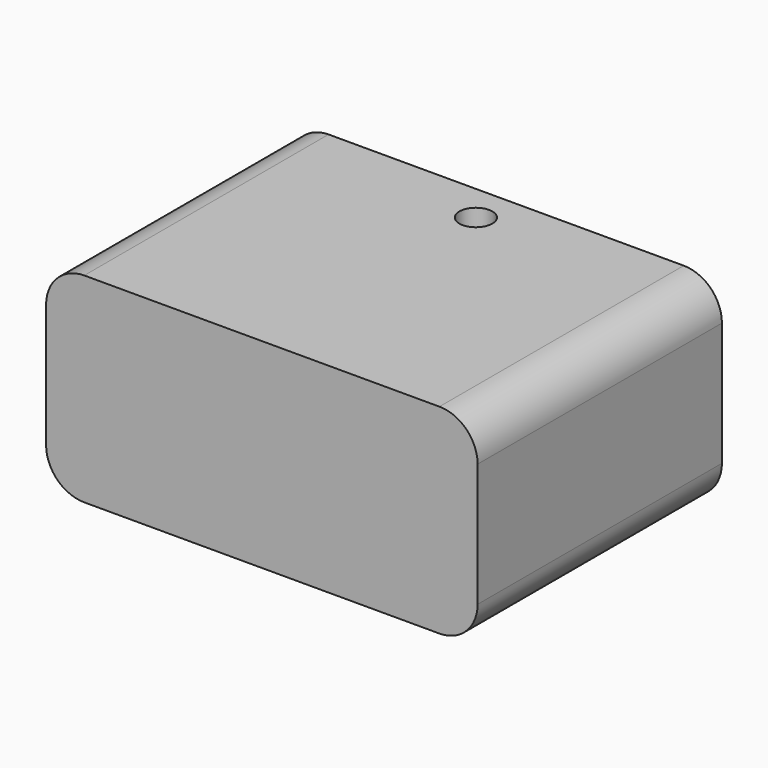
from build123d import *

# Parameters (mm, degrees)
F1_DEPTH = 50.8
F3_D     = 5.5


with BuildPart() as f1:
    # F0 (on Front) → F1 (new body)
    with BuildSketch(Plane.XZ):
        with BuildLine():
            ThreePointArc((0, 6.35), (1.8598719395, 1.8598719395), (6.35, 0))
            Line((6.35, 0), (65.4343323946, 0))
            ThreePointArc((65.4343323946, 0), (69.9244604551, 1.8598719395), (71.7843323946, 6.35))
            Line((71.7843323946, 6.35), (71.7843323946, 26.8787885249))
            ThreePointArc((71.7843323946, 26.8787885249), (69.9244604551, 31.3689165854), (65.4343323946, 33.2287885249))
            Line((65.4343323946, 33.2287885249), (6.35, 33.2287885249))
            ThreePointArc((6.35, 33.2287885249), (1.8598719395, 31.3689165854), (0, 26.8787885249))
            Line((0, 26.8787885249), (0, 6.35))
        make_face()
    extrude(amount=F1_DEPTH)

    # F3 (through all)
    with Locations(Plane.XY.offset(33.2287885249)):
        with Locations((35.8921661973, -6.2919375487)):
            Hole(F3_D / 2)


solid = f1.part
